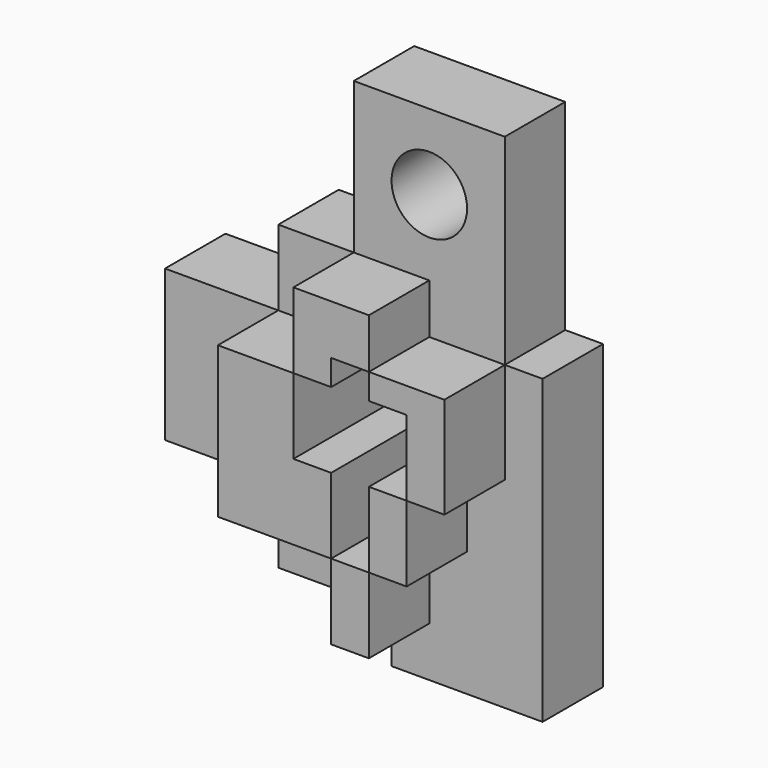
from build123d import *

# Parameters (mm, degrees)
F1_DEPTH = 12.7
F0_W     = 12.7
F0_H     = 12.7
F0_W_2   = 19.05
F0_H_2   = 25.4
F2_DEPTH = 25.4
F0_W_3   = 6.35
F3_R     = 6.35
F4_DEPTH = 25.4


with BuildPart() as f1:
    # F0 (on Front) → F1 (new body)
    with BuildSketch(Plane.XZ):
        Polygon((25.4, 50.8), (0, 50.8), (0, 25.4), (12.7, 25.4), (12.7, 17.018), (25.4, 17.018), align=None)
    extrude(amount=F1_DEPTH)

    # F3 (on face) → F4 (cut)
    with BuildSketch(Plane.XZ.offset(12.7)):
        with Locations((12.7, 38.1)):
            Circle(F3_R)
    extrude(amount=-F4_DEPTH, mode=Mode.SUBTRACT)


with BuildPart() as f1b:
    # F0 (on Front) → F1, piece 2 (new body)
    with BuildSketch(Plane.XZ):
        with Locations((-6.35, 19.05)):
            Rectangle(F0_W, F0_H)
    extrude(amount=F1_DEPTH)


with BuildPart() as f1c:
    # F0 (on Front) → F1, piece 3 (new body)
    with BuildSketch(Plane.XZ):
        Polygon((31.75, 17.018), (25.4, 17.018), (25.4, 0), (19.05, 0), (19.05, -12.7), (12.7, -12.7), (12.7, -25.4), (6.35, -25.4), (6.35, -33.782), (31.75, -33.782), align=None)
    extrude(amount=F1_DEPTH)


with BuildPart() as f1d:
    # F0 (on Front) → F1, piece 4 (new body)
    with BuildSketch(Plane.XZ):
        with Locations((-3.175, -19.05)):
            Rectangle(F0_W_2, F0_H)
    extrude(amount=F1_DEPTH)


with BuildPart() as f1e:
    # F0 (on Front) → F1, piece 5 (new body)
    with BuildSketch(Plane.XZ):
        with Locations((-22.225, 0)):
            Rectangle(F0_W_2, F0_H_2)
    extrude(amount=F1_DEPTH)


with BuildPart() as f2:
    # F0 (on Front) → F2 (new body)
    with BuildSketch(Plane.XZ):
        Polygon((0, 0), (0, 12.7), (-12.7, 12.7), (-12.7, -12.7), (6.35, -12.7), (6.35, 0), align=None)
    extrude(amount=F2_DEPTH)


with BuildPart() as f2b:
    # F0 (on Front) → F2, piece 2 (new body)
    with BuildSketch(Plane.XZ):
        with Locations((9.525, -19.05)):
            Rectangle(F0_W_3, F0_H)
    extrude(amount=F2_DEPTH)


with BuildPart() as f2c:
    # F0 (on Front) → F2, piece 3 (new body)
    with BuildSketch(Plane.XZ):
        with Locations((15.875, -6.35)):
            Rectangle(F0_W_3, F0_H)
    extrude(amount=F2_DEPTH)


with BuildPart() as f2d:
    # F0 (on Front) → F2, piece 4 (new body)
    with BuildSketch(Plane.XZ):
        Polygon((25.4, 0), (25.4, 17.018), (12.7, 17.018), (12.7, 12.7), (19.05, 12.7), (19.05, 0), align=None)
    extrude(amount=F2_DEPTH)


with BuildPart() as f2e:
    # F0 (on Front) → F2, piece 5 (new body)
    with BuildSketch(Plane.XZ):
        Polygon((12.7, 25.4), (0, 25.4), (0, 12.7), (6.35, 12.7), (6.35, 17.018), (12.7, 17.018), align=None)
    extrude(amount=F2_DEPTH)


solid = Compound([f1.part, f1b.part, f1c.part, f1d.part, f1e.part, f2.part, f2b.part, f2c.part, f2d.part, f2e.part])
